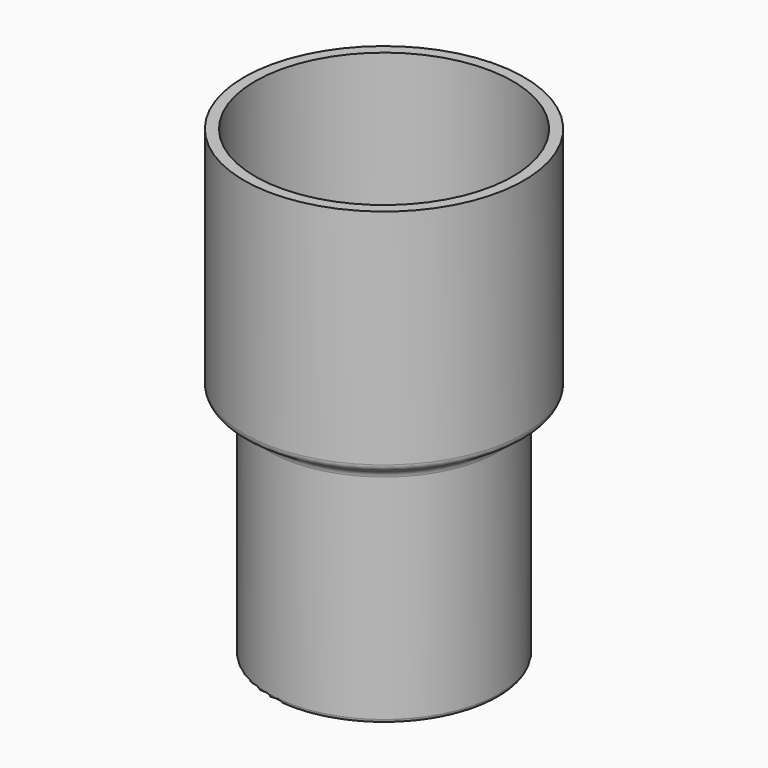
from build123d import *

# Parameters (mm, degrees)
F2_R = 0.5
F3_R = 1
F4_R = 1


with BuildPart() as f1:
    # F0 (on Front) → F1 (revolve)
    with BuildSketch(Plane.XZ):
        Polygon((-17.5, 0), (-17.5, 30), (-19, 30), (-19, -0.829571), (-15.6, -2.963267), (-15.6, -32.963267), (-14.1, -32.963267), (-14.1, -2.133696), align=None)
    revolve(axis=Axis((0, 0, 4.728004), (0, 0, -1)))

    # F2
    f2_edges = [f1.edges().sort_by_distance(p)[0] for p in [
        (15.6, 0, -32.963267),
        (14.1, 0, -32.963267),
    ]]
    fillet(f2_edges, radius=F2_R)

    # F3
    f3_edges = [f1.edges().sort_by_distance(p)[0] for p in [
        (19, 0, -0.829571),
        (15.6, 0, -2.963267),
    ]]
    fillet(f3_edges, radius=F3_R)

    # F4
    f4_edges = [f1.edges().sort_by_distance(p)[0] for p in [
        (14.1, 0, -2.133696),
        (17.5, 0, 0),
    ]]
    fillet(f4_edges, radius=F4_R)


solid = f1.part
